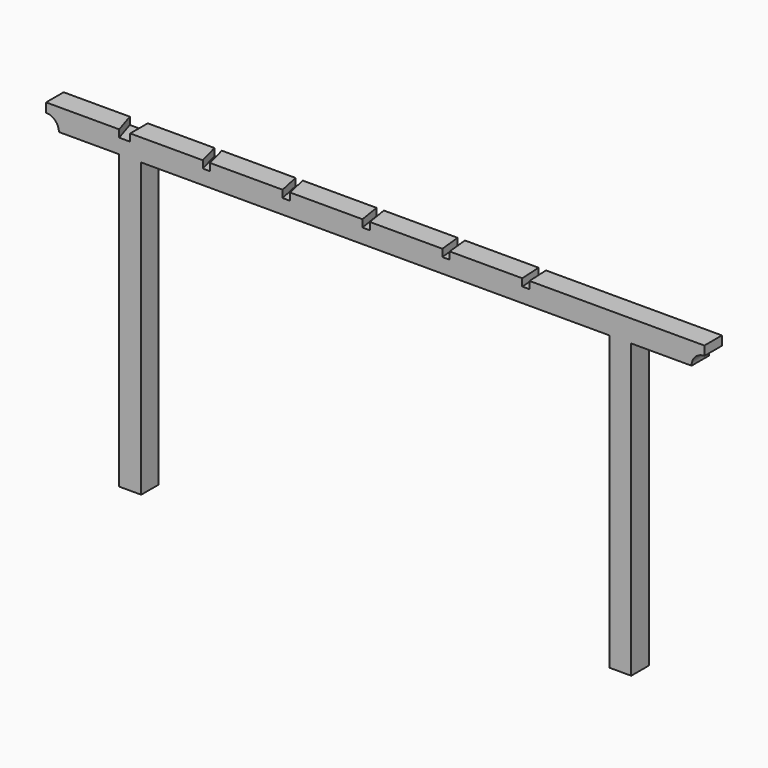
from build123d import *

# Parameters (mm, degrees)
F0_W     = 150
F0_H     = 2000
F0_W_2   = 500
F0_H_2   = 150
F1_DEPTH = 150
F2_D     = 175
F3_D     = 175
F4_W     = 75
F4_H     = 150
F5_DEPTH = 50
F6_DEPTH = 50
F7_DEPTH = 50


with BuildPart() as f1:
    # F0 (on Front) → F1 (new body)
    with BuildSketch(Plane.XZ):
        with Locations((75, 1000)):
            Rectangle(F0_W, F0_H)
        Polygon((-3200, 2000), (0, 2000), (150, 2000), (150, 2150), (-3350, 2150), (-3350, 2000), align=None)
        with Locations((400, 2075)):
            Rectangle(F0_W_2, F0_H_2)
        with Locations((-3275, 1000)):
            Rectangle(F0_W, F0_H)
        with Locations((-3600, 2075)):
            Rectangle(F0_W_2, F0_H_2)
    extrude(amount=-F1_DEPTH)

    # F2 (through all)
    with Locations(Plane.XZ):
        with Locations((-3850, 2000)):
            Hole(F2_D / 2)

    # F3 (through all)
    with Locations(Plane.XZ):
        with Locations((650, 2000)):
            Hole(F3_D / 2)

    # F4 (on face) → F5 (cut)
    with BuildSketch(Plane.XY.offset(2150)):
        Polygon((-3398, 150), (-3350, 0), (-3350, 150), align=None)
        with Locations((-3312.5, 75)):
            Rectangle(F4_W, F4_H)
    extrude(amount=-F5_DEPTH, mode=Mode.SUBTRACT)

    # F4 (on face) → F6 (cut)
    with BuildSketch(Plane.XY.offset(2150)):
        Polygon((-2818.932719, 150), (-2779, 0), (-2729, 0), (-2768.932719, 150), align=None)
    extrude(amount=-F6_DEPTH, mode=Mode.SUBTRACT)

    # F4 (on face) → F7 (cut)
    with BuildSketch(Plane.XY.offset(2150)):
        Polygon((-602.986544, 150), (-595, 0), (-545, 0), (-552.986544, 150), align=None)
        Polygon((-1156.882332, 150), (-1141, 0), (-1091, 0), (-1106.882332, 150), align=None)
        Polygon((-1711.050388, 150), (-1687, 0), (-1637, 0), (-1661.050388, 150), align=None)
        Polygon((-2264.991554, 150), (-2233, 0), (-2183, 0), (-2214.991554, 150), align=None)
    extrude(amount=-F7_DEPTH, mode=Mode.SUBTRACT)


solid = f1.part
